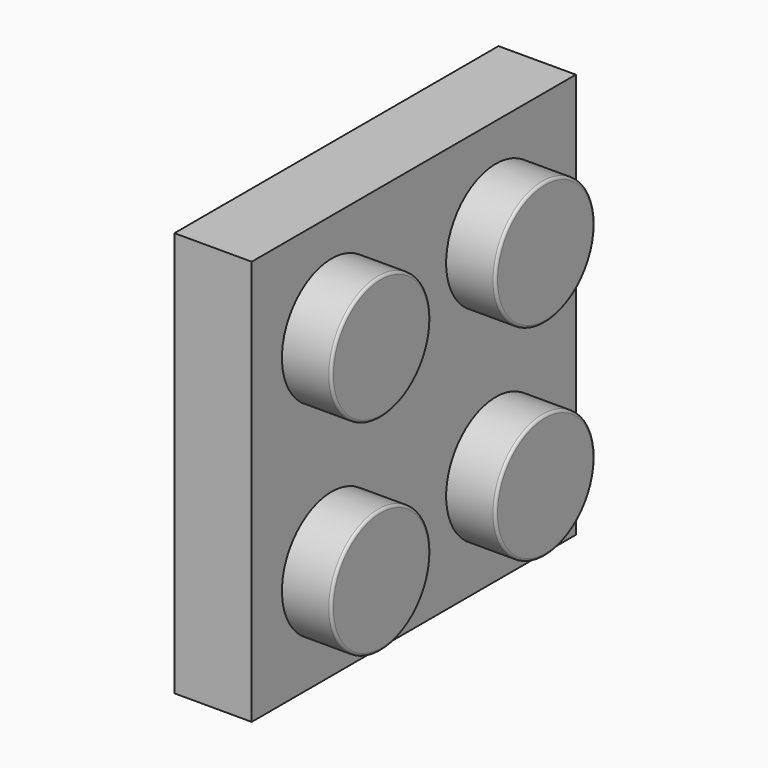
from build123d import *

# Parameters (mm, degrees)
F0_R     = 2.42
F1_DEPTH = 1.92
F0_W     = 15.77
F0_H     = 15.77
F2_DEPTH = 3.01
F3_R     = 0.1
F3_2_R   = 0.1
F3_3_R   = 0.1
F3_4_R   = 0.1


with BuildPart() as f1:
    # F0 (on Right) → F1 (new body)
    with BuildSketch(Plane.YZ):
        with Locations((-59.0907996492, 60.9880724129)):
            Circle(F0_R)
    extrude(amount=F1_DEPTH)

    # F3#2
    f3_2_edges = [f1.edges().sort_by_distance(p)[0] for p in [
        (1.92, -61.5108, 60.988072),
    ]]
    fillet(f3_2_edges, radius=F3_2_R)


with BuildPart() as f1b:
    # F0 (on Right) → F1, piece 2 (new body)
    with BuildSketch(Plane.YZ):
        with Locations((-51.1007996492, 60.9880724129)):
            Circle(F0_R)
    extrude(amount=F1_DEPTH)

    # F3
    f3_edges = [f1b.edges().sort_by_distance(p)[0] for p in [
        (1.92, -53.5208, 60.988072),
    ]]
    fillet(f3_edges, radius=F3_R)


with BuildPart() as f1c:
    # F0 (on Right) → F1, piece 3 (new body)
    with BuildSketch(Plane.YZ):
        with Locations((-59.0907996492, 52.9980724129)):
            Circle(F0_R)
    extrude(amount=F1_DEPTH)

    # F3#3
    f3_3_edges = [f1c.edges().sort_by_distance(p)[0] for p in [
        (1.92, -61.5108, 52.998072),
    ]]
    fillet(f3_3_edges, radius=F3_3_R)


with BuildPart() as f1d:
    # F0 (on Right) → F1, piece 4 (new body)
    with BuildSketch(Plane.YZ):
        with Locations((-51.1007996492, 52.9980724129)):
            Circle(F0_R)
    extrude(amount=F1_DEPTH)

    # F3#4
    f3_4_edges = [f1d.edges().sort_by_distance(p)[0] for p in [
        (1.92, -53.5208, 52.998072),
    ]]
    fillet(f3_4_edges, radius=F3_4_R)


with BuildPart() as f2:
    # F0 (on Right) → F2 (new body)
    with BuildSketch(Plane.YZ):
        with Locations((-55.0957996492, 56.9930724129)):
            Rectangle(F0_W, F0_H)
        with Locations((-59.0907996492, 52.9980724129)):
            Circle(F0_R, mode=Mode.SUBTRACT)
        with Locations((-51.1007996492, 52.9980724129)):
            Circle(F0_R, mode=Mode.SUBTRACT)
        with Locations((-59.0907996492, 60.9880724129)):
            Circle(F0_R, mode=Mode.SUBTRACT)
        with Locations((-51.1007996492, 60.9880724129)):
            Circle(F0_R, mode=Mode.SUBTRACT)
        with Locations((-59.0907996492, 60.9880724129)):
            Circle(F0_R)
        with Locations((-51.1007996492, 60.9880724129)):
            Circle(F0_R)
        with Locations((-51.1007996492, 52.9980724129)):
            Circle(F0_R)
        with Locations((-59.0907996492, 52.9980724129)):
            Circle(F0_R)
    extrude(amount=-F2_DEPTH)


solid = Compound([f1.part, f1b.part, f1c.part, f1d.part, f2.part])
